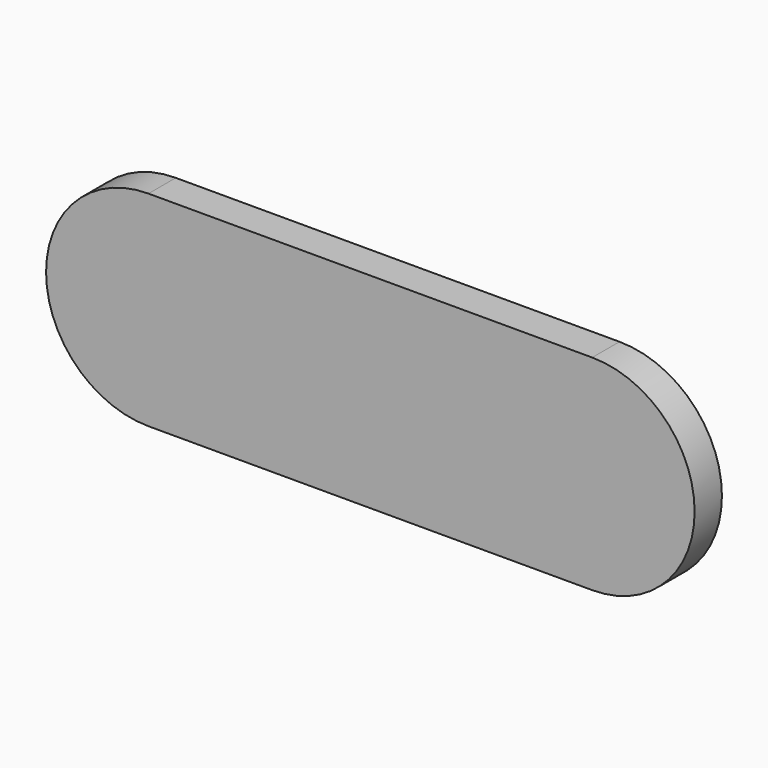
from build123d import *

# Parameters (mm, degrees)
EXTRUDE010_DEPTH = 1
EXTRUDE009_DEPTH = 2.4
CHAMFER005_SIZE2 = 1.5
CHAMFER005_SIZE  = 0.8


with BuildPart() as extrude010:
    # Sketch011 (on Sketch) → Extrude010 (new body)
    with BuildSketch(Plane.XZ.offset(33)):
        with BuildLine():
            ThreePointArc((-11, 10), (-14, 7), (-11, 4))
            Line((-11, 4), (2, 4))
            ThreePointArc((2, 4), (5, 7), (2, 10))
            Line((2, 10), (-11, 10))
        make_face()
    extrude(amount=EXTRUDE010_DEPTH)


with BuildPart() as obj1:
    # Sketch010 (on Sketch) → Extrude009 (new body)
    with BuildSketch(Plane.XZ.offset(33)):
        with BuildLine():
            ThreePointArc((-11, 8.2), (-12.2, 7), (-11, 5.8))
            Line((-11, 5.8), (2, 5.8))
            ThreePointArc((2, 5.8), (3.2, 7), (2, 8.2))
            Line((2, 8.2), (-11, 8.2))
        make_face()
    extrude(amount=-EXTRUDE009_DEPTH)

    # Connect002: union Extrude010
    add(extrude010.part)

    # Chamfer005
    chamfer005_edges = [obj1.edges().sort_by_distance(p)[0] for p in [
        (-4.5, -30.6, 8.2),
    ]]
    chamfer005_side = obj1.faces().sort_by_distance((-4.5, -30.6, 7))[0]
    chamfer(chamfer005_edges, length=CHAMFER005_SIZE, length2=CHAMFER005_SIZE2, reference=chamfer005_side)


solid = obj1.part
